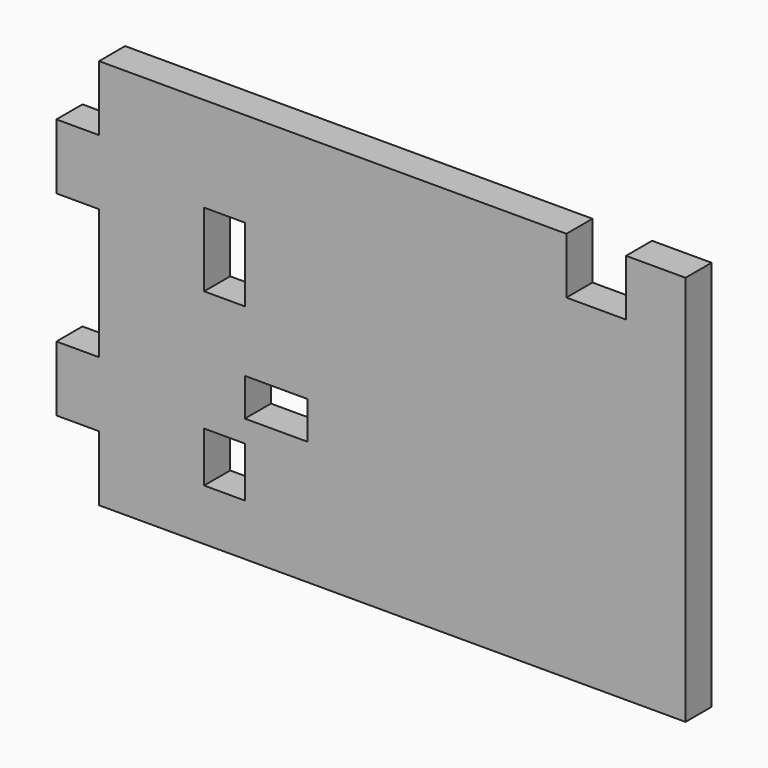
from build123d import *

# Parameters (mm, degrees)
F0_W     = 15.893753
F0_H     = 19.56154
F0_W_2   = 24.451922
F0_H_2   = 14.671155
F0_H_3   = 28.731011
F1_DEPTH = 6.35


with BuildPart() as f1:
    # F0 (on Front) → F1 (new body, symmetric)
    with BuildSketch(Plane.XZ):
        Polygon((76.176893, 76.2), (-105.989931, 76.2), (-105.989931, 50.8), (-122.610069, 50.8), (-122.610069, 25.4), (-105.989931, 25.4), (-105.989931, -25.4), (-122.610069, -25.4), (-122.610069, -50.8), (-105.989931, -50.8), (-105.989931, -76.2), (122.610069, -76.2), (122.610069, 76.2), (99.40623, 76.2), (99.40623, 54.305801), (76.176893, 54.305801), align=None)
        with Locations((-57.086084, -46.321418)):
            Rectangle(F0_W, F0_H, mode=Mode.SUBTRACT)
        with Locations((-36.913247, -20.646898)):
            Rectangle(F0_W_2, F0_H_2, mode=Mode.SUBTRACT)
        with Locations((-57.086084, 24.89481)):
            Rectangle(F0_W, F0_H_3, mode=Mode.SUBTRACT)
    extrude(amount=F1_DEPTH, both=True)


solid = f1.part
